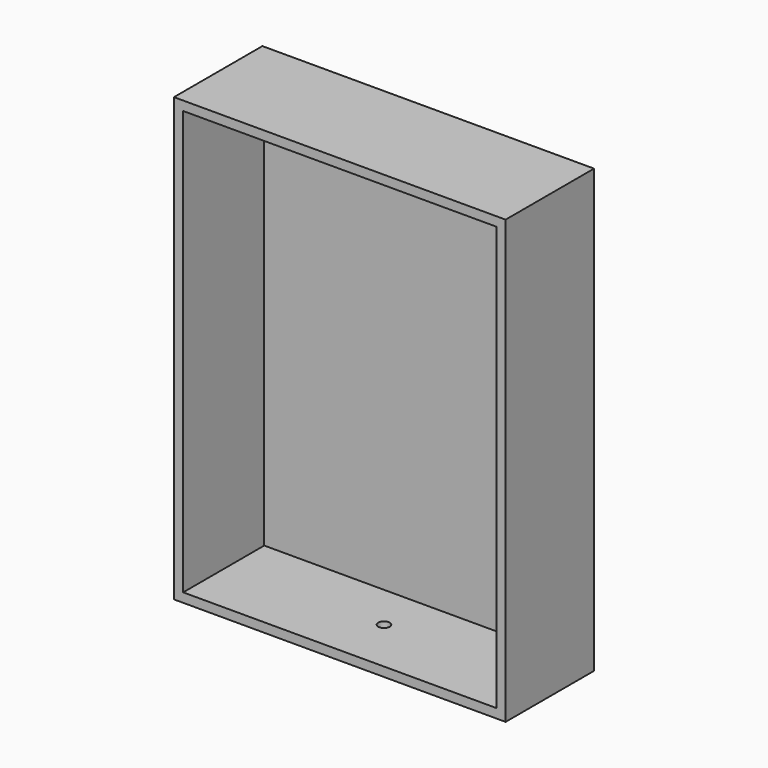
from build123d import *

# Parameters (mm, degrees)
F0_W     = 90
F0_H     = 120
F1_DEPTH = 30
F2_T     = -2.5
F3_R     = 1.55
F4_DEPTH = 25


with BuildPart() as f1:
    # F0 (on Front) → F1 (new body)
    with BuildSketch(Plane.XZ):
        Rectangle(F0_W, F0_H)
    extrude(amount=F1_DEPTH)

    # F2
    f2_openings = [f1.faces().sort_by_distance(p)[0] for p in [
        (0, -30, 0),
    ]]
    offset(amount=F2_T, openings=f2_openings)

    # F3 (on face) → F4 (cut)
    with BuildSketch(Plane(origin=(0, 0, -60), x_dir=(1, 0, 0), z_dir=(0, 0, -1))):
        with Locations((0, 15)):
            Circle(F3_R)
    extrude(amount=-F4_DEPTH, mode=Mode.SUBTRACT)


solid = f1.part
